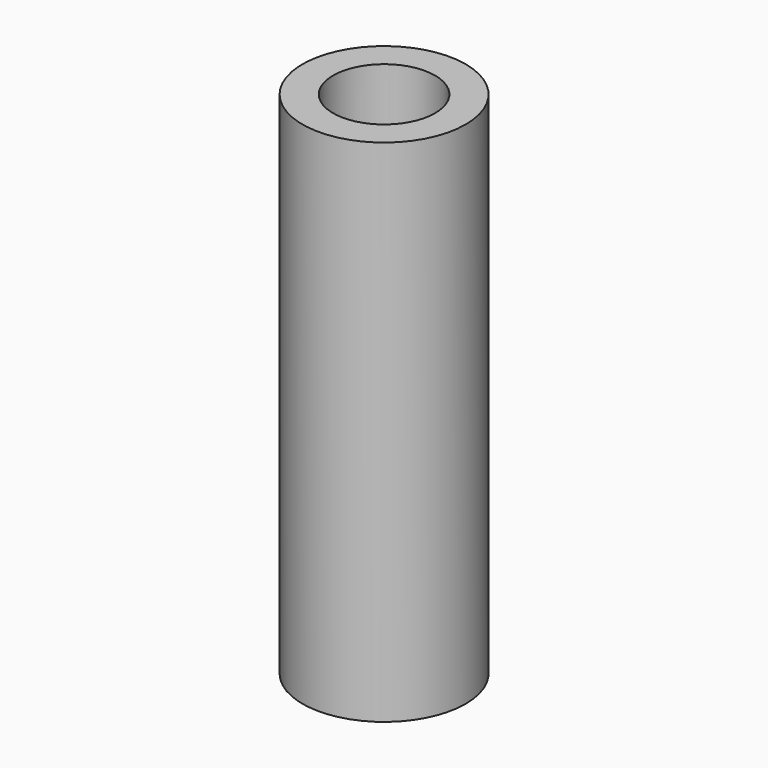
from build123d import *

# Parameters (mm, degrees)
F0_R     = 8
F0_R_2   = 5
F1_DEPTH = 50
F2_DEPTH = 2
F3_R     = 2
F4_DEPTH = 25


with BuildPart() as f1:
    # F0 (on Top) → F1 (new body)
    with BuildSketch(Plane.XY):
        Circle(F0_R)
        Circle(F0_R_2, mode=Mode.SUBTRACT)
    extrude(amount=F1_DEPTH)

    # F0 (on Top) → F2 (join)
    with BuildSketch(Plane.XY):
        Circle(F0_R_2)
    extrude(amount=F2_DEPTH)

    # F3 (on Right) → F4 (cut)
    with BuildSketch(Plane.YZ):
        with Locations((0, 40)):
            Circle(F3_R)
    extrude(amount=-F4_DEPTH, mode=Mode.SUBTRACT)


solid = f1.part
